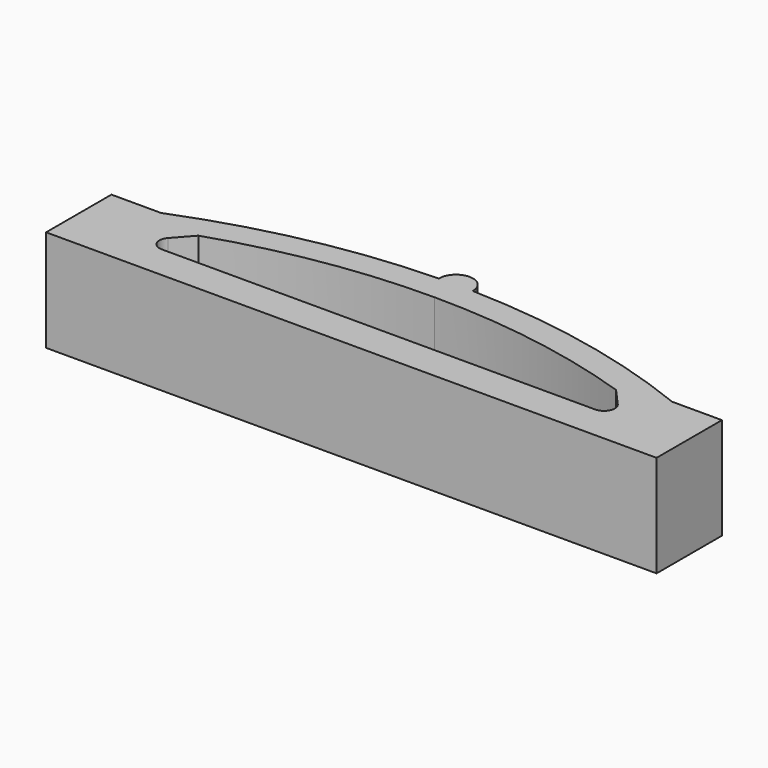
from build123d import *

# Parameters (mm, degrees)
F1_DEPTH = 3


with BuildPart() as f1:
    # F0 (on Top) → F1 (new body)
    with BuildSketch(Plane.XY):
        Polygon((-9, -13.1518765464), (9, -13.1518765464), (9, -12.1518765464), (7.5940429233, -12.1518765464), (7.1061723866, -12.1518765464), (6.3949443998, -12.1518765464), (-6.3949443998, -12.1518765464), (-7.1061723866, -12.1518765464), (-7.5940429233, -12.1518765464), (-9, -12.1518765464), align=None)
        with BuildLine():
            Line((7.5940429233, -12.1518765464), (9, -12.1518765464))
            Line((9, -12.1518765464), (9, -10.7436807282))
            Line((9, -10.7436807282), (7.5334591278, -10.7436807282))
            ThreePointArc((7.5334591278, -10.7436807282), (4.0810364135, -9.7085126375), (0.499962082, -9.3002208224))
            ThreePointArc((0.499962082, -9.3002208224), (0, -9.7940631791), (-0.499962082, -9.3002208224))
            ThreePointArc((-0.499962082, -9.3002208224), (-4.0810364135, -9.7085126375), (-7.5334591278, -10.7436807282))
            Line((-7.5334591278, -10.7436807282), (-9, -10.7436807282))
            Line((-9, -10.7436807282), (-9, -12.1518765464))
            Line((-9, -12.1518765464), (-7.5940429233, -12.1518765464))
            Line((-7.5940429233, -12.1518765464), (-7.5789392504, -11.6271602603))
            ThreePointArc((-7.5789392504, -11.6271602603), (-6.8735181386, -11.3456472582), (-6.1576693432, -11.0918185417))
            ThreePointArc((-6.1576693432, -11.0918185417), (-3.1189905219, -10.3451181397), (0, -10.0940631791))
            ThreePointArc((0, -10.0940631791), (3.1189905219, -10.3451181397), (6.1576693432, -11.0918185417))
            ThreePointArc((6.1576693432, -11.0918185417), (6.8735181386, -11.3456472582), (7.5789392504, -11.6271602603))
            Line((7.5789392504, -11.6271602603), (7.5940429233, -12.1518765464))
        make_face()
        with BuildLine():
            ThreePointArc((-0.499962082, -9.3002208224), (0, -9.7940631791), (0.499962082, -9.3002208224))
            ThreePointArc((0.499962082, -9.3002208224), (0.25, -9.2956026483), (0, -9.2940631791))
            ThreePointArc((0, -9.2940631791), (-0.25, -9.2956026483), (-0.499962082, -9.3002208224))
        make_face()
        with BuildLine():
            ThreePointArc((0, -9.2940631791), (0.25, -9.2956026483), (0.499962082, -9.3002208224))
            ThreePointArc((0.499962082, -9.3002208224), (0.4999905204, -9.2971420591), (0.5, -9.2940631791))
            ThreePointArc((0.5, -9.2940631791), (-0.00307888, -8.7940726587), (-0.499962082, -9.3002208224))
            ThreePointArc((-0.499962082, -9.3002208224), (-0.25, -9.2956026483), (0, -9.2940631791))
        make_face()
        with BuildLine():
            Line((-7.5789392504, -11.6271602603), (-7.5940429233, -12.1518765464))
            Line((-7.5940429233, -12.1518765464), (-7.1061723866, -12.1518765464))
            Line((-7.1061723866, -12.1518765464), (-6.6319208649, -11.6218475441))
            Line((-6.6319208649, -11.6218475441), (-6.1576693432, -11.0918185417))
            ThreePointArc((-6.1576693432, -11.0918185417), (-6.8735181386, -11.3456472582), (-7.5789392504, -11.6271602603))
        make_face()
        with BuildLine():
            Line((-6.6319208649, -11.6218475441), (-7.1061723866, -12.1518765464))
            Line((-7.1061723866, -12.1518765464), (-6.3949443998, -12.1518765464))
            ThreePointArc((-6.3949443998, -12.1518765464), (-6.6852410534, -11.9636777518), (-6.6319208649, -11.6218475441))
        make_face()
        with BuildLine():
            Line((6.3949443998, -12.1518765464), (7.1061723866, -12.1518765464))
            Line((7.1061723866, -12.1518765464), (6.6319208649, -11.6218475441))
            ThreePointArc((6.6319208649, -11.6218475441), (6.6852410534, -11.9636777518), (6.3949443998, -12.1518765464))
        make_face()
        with BuildLine():
            Line((7.1061723866, -12.1518765464), (7.5940429233, -12.1518765464))
            Line((7.5940429233, -12.1518765464), (7.5789392504, -11.6271602603))
            ThreePointArc((7.5789392504, -11.6271602603), (6.8735181386, -11.3456472582), (6.1576693432, -11.0918185417))
            Line((6.1576693432, -11.0918185417), (6.6319208649, -11.6218475441))
            Line((6.6319208649, -11.6218475441), (7.1061723866, -12.1518765464))
        make_face()
    extrude(amount=F1_DEPTH)


solid = f1.part
